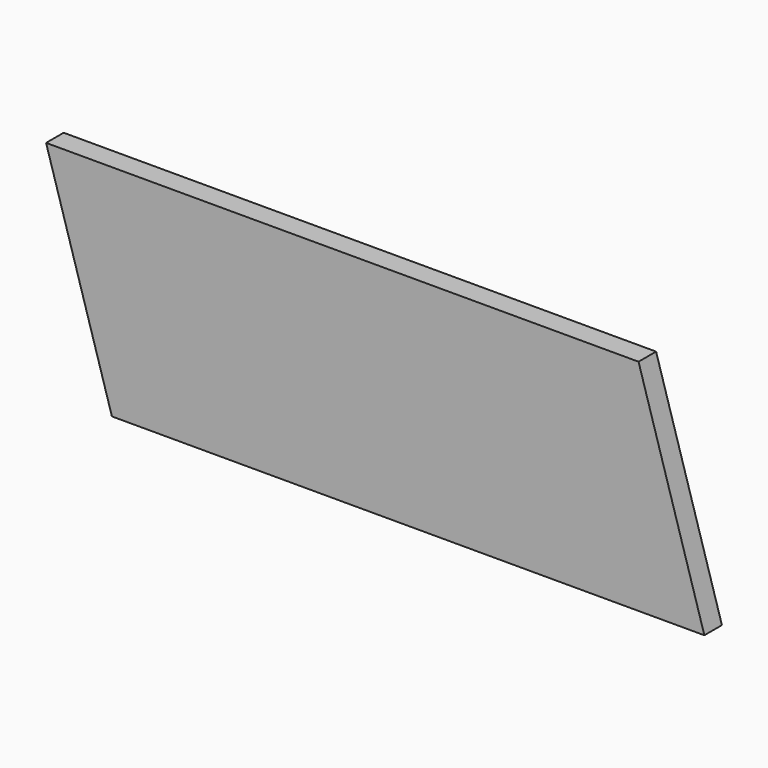
from build123d import *

# Parameters (mm, degrees)
F0_W     = 1500
F0_H     = 50
F1_DEPTH = 250
F3_DEPTH = 50


with BuildPart() as f1:
    # F0 (on Top) → F1 (new body, symmetric)
    with BuildSketch(Plane.XY):
        Rectangle(F0_W, F0_H)
    extrude(amount=F1_DEPTH, both=True)

    # F2 (on face) → F3 (cut, through all)
    with BuildSketch(Plane.XZ.offset(25)):
        Polygon((-600, -250), (-750, 250), (-750, -250), align=None)
        Polygon((600, 250), (750, -250), (750, 250), align=None)
    extrude(amount=-F3_DEPTH, mode=Mode.SUBTRACT)


solid = f1.part
